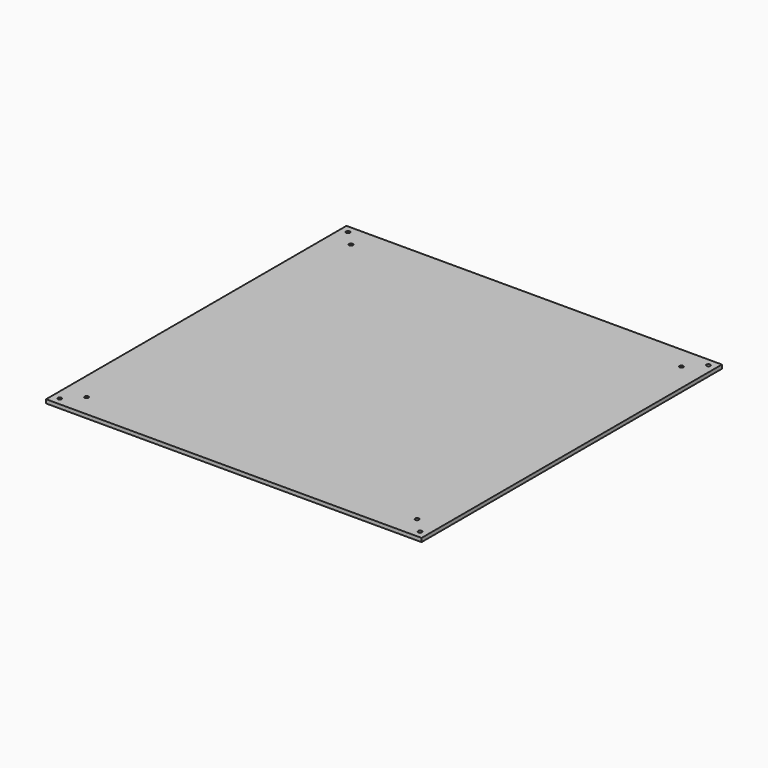
from build123d import *

# Parameters (mm, degrees)
F0_W     = 500
F0_H     = 500
F0_R     = 2.5
F1_DEPTH = 5


with BuildPart() as f1:
    # F0 (on Top) → F1 (new body)
    with BuildSketch(Plane.XY):
        Rectangle(F0_W, F0_H)
        with Locations((-240, -240)):
            Circle(F0_R, mode=Mode.SUBTRACT)
        with Locations((-220, -220)):
            Circle(F0_R, mode=Mode.SUBTRACT)
        with Locations((240, -240)):
            Circle(F0_R, mode=Mode.SUBTRACT)
        with Locations((220, -220)):
            Circle(F0_R, mode=Mode.SUBTRACT)
        with Locations((-220, 220)):
            Circle(F0_R, mode=Mode.SUBTRACT)
        with Locations((-240, 240)):
            Circle(F0_R, mode=Mode.SUBTRACT)
        with Locations((220, 220)):
            Circle(F0_R, mode=Mode.SUBTRACT)
        with Locations((240, 240)):
            Circle(F0_R, mode=Mode.SUBTRACT)
    extrude(amount=F1_DEPTH)


solid = f1.part
